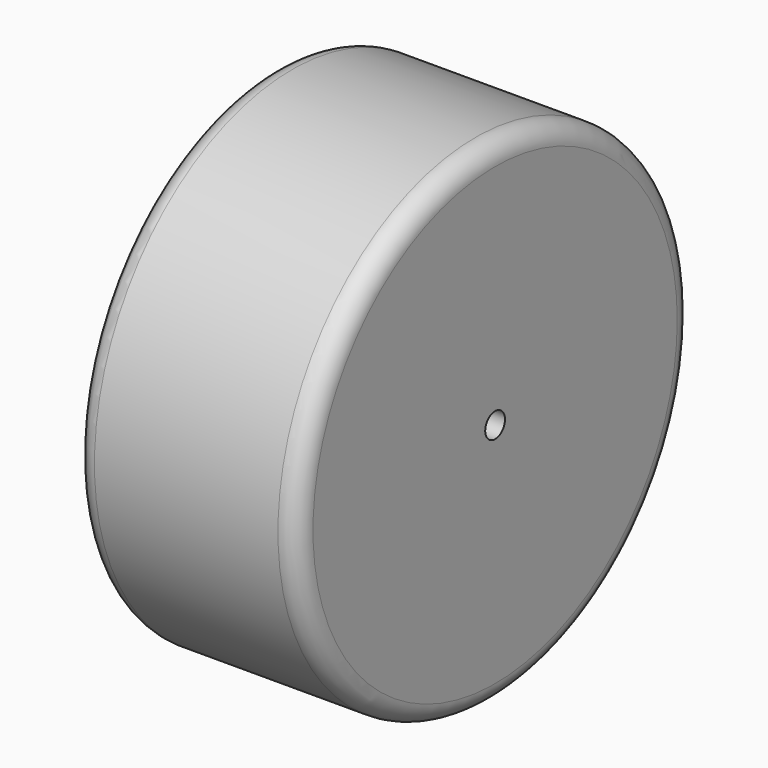
from build123d import *

# Parameters (mm, degrees)
F0_R     = 127
F1_DEPTH = 114.3
F2_R     = 10
F3_R     = 6.35
F4_DEPTH = 114.3


with BuildPart() as f1:
    # F0 (on Right) → F1 (new body)
    with BuildSketch(Plane.YZ):
        Circle(F0_R)
    extrude(amount=-F1_DEPTH)

    # F2
    f2_edges = [f1.edges().sort_by_distance(p)[0] for p in [
        (0, -127, 0),
        (-114.3, -127, 0),
    ]]
    fillet(f2_edges, radius=F2_R)

    # F3 (on face) → F4 (cut, through all)
    with BuildSketch(Plane.YZ):
        Circle(F3_R)
    extrude(amount=-F4_DEPTH, mode=Mode.SUBTRACT)


solid = f1.part
